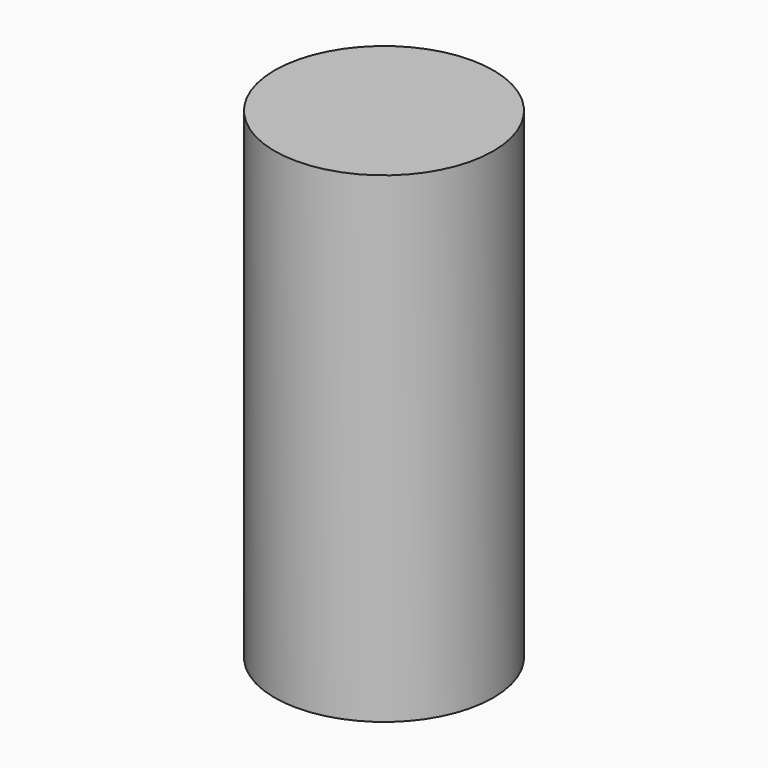
from build123d import *

# Parameters (mm, degrees)
SKETCH_R  = 2.5
PAD_DEPTH = 11


with BuildPart() as part:
    # Sketch → Pad (new body)
    with BuildSketch(Plane.XY):
        Circle(SKETCH_R)
    extrude(amount=PAD_DEPTH)


solid = part.part
